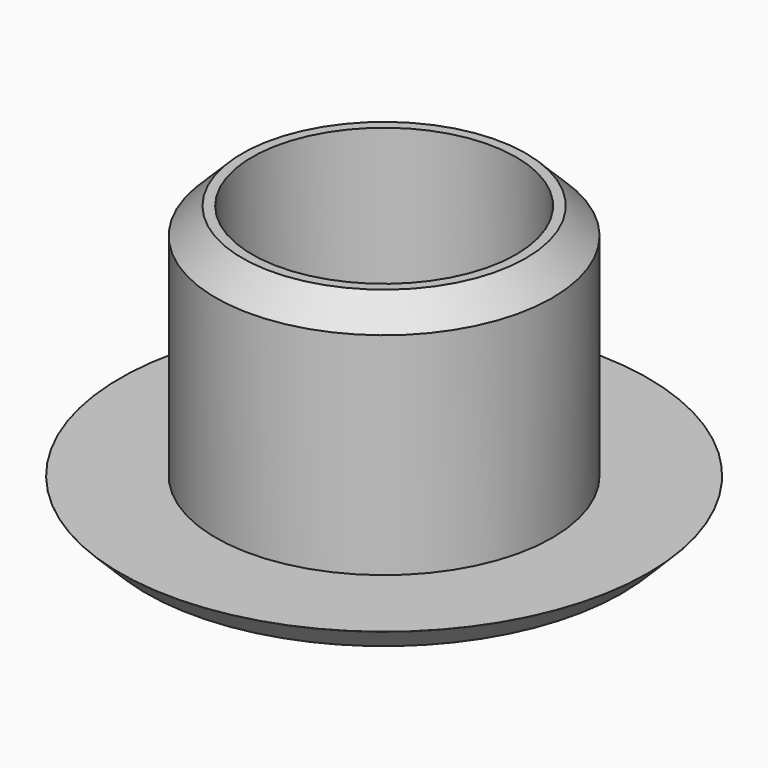
from build123d import *

# Parameters (mm, degrees)
SKETCH_R        = 20
PAD_DEPTH       = 2
SKETCH001_R     = 12.75
PAD001_DEPTH    = 18
SKETCH002_R     = 10
POCKET_DEPTH    = 20.001
CHAMFER_SIZE    = 2
CHAMFER001_SIZE = 1.99


with BuildPart() as part:
    # Sketch → Pad (new body)
    with BuildSketch(Plane.XY):
        Circle(SKETCH_R)
    extrude(amount=PAD_DEPTH)

    # Sketch001 (on Face3 of Pad) → Pad001 (join)
    with BuildSketch(Plane.XY.offset(2)):
        Circle(SKETCH001_R)
    extrude(amount=PAD001_DEPTH)

    # Sketch002 (on Face5 of Pad001) → Pocket (cut, through all)
    with BuildSketch(Plane.XY.offset(20)):
        Circle(SKETCH002_R)
    extrude(amount=-POCKET_DEPTH, mode=Mode.SUBTRACT)

    # Chamfer
    chamfer_edges = [part.edges().sort_by_distance(p)[0] for p in [
        (-12.75, 0, 20),
    ]]
    chamfer(chamfer_edges, length=CHAMFER_SIZE)

    # Chamfer001
    chamfer001_edges = [part.edges().sort_by_distance(p)[0] for p in [
        (-20, 0, 0),
    ]]
    chamfer(chamfer001_edges, length=CHAMFER001_SIZE)


solid = part.part
